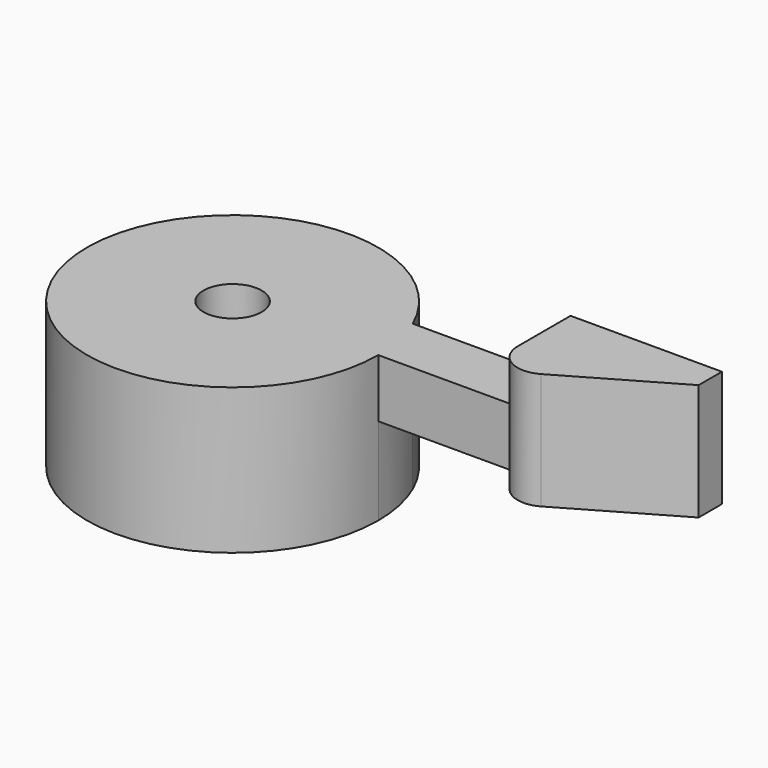
from build123d import *

# Parameters (mm, degrees)
F1_DEPTH = 2
F2_DEPTH = 2
F3_DEPTH = 5
F4_R     = 1
F5_D     = 2


with BuildPart() as f1:
    # F0 (on Top) → F1 (new body)
    with BuildSketch(Plane.XY):
        with BuildLine():
            ThreePointArc((-4.815335286, 0.875), (-4.5033794163, -0.1034517816), (-4.3979109809, -1.125))
            Line((-4.3979109809, -1.125), (0.6020890191, -1.125))
            Line((0.6020890191, -1.125), (0.6020890191, 0.875))
            Line((0.6020890191, 0.875), (-4.815335286, 0.875))
        make_face()
    extrude(amount=-F1_DEPTH)

    # F0 (on Top) → F2 (join, symmetric)
    with BuildSketch(Plane.XY):
        Polygon((0.6020890191, 0.875), (0.6020890191, -1.125), (0.6020890191, -3.125), (5.7980890191, -0.125), (5.7980890191, 0.875), align=None)
    extrude(amount=F2_DEPTH, both=True)

    # F0 (on Top) → F3 (join)
    with BuildSketch(Plane.XY):
        with BuildLine():
            ThreePointArc((-4.815335286, 0.875), (-14.2924425456, -2.1465482184), (-4.3979109809, -1.125))
            ThreePointArc((-4.3979109809, -1.125), (-4.5033794163, -0.1034517816), (-4.815335286, 0.875))
        make_face()
    extrude(amount=-F3_DEPTH)

    # F4
    f4_edges = [f1.edges().sort_by_distance(p)[0] for p in [
        (0.602089, -3.125, 0),
    ]]
    fillet(f4_edges, radius=F4_R)

    # F5 (through all)
    with Locations(Plane.XY):
        with Locations((-9.3979109809, -1.125)):
            Hole(F5_D / 2)


solid = f1.part
